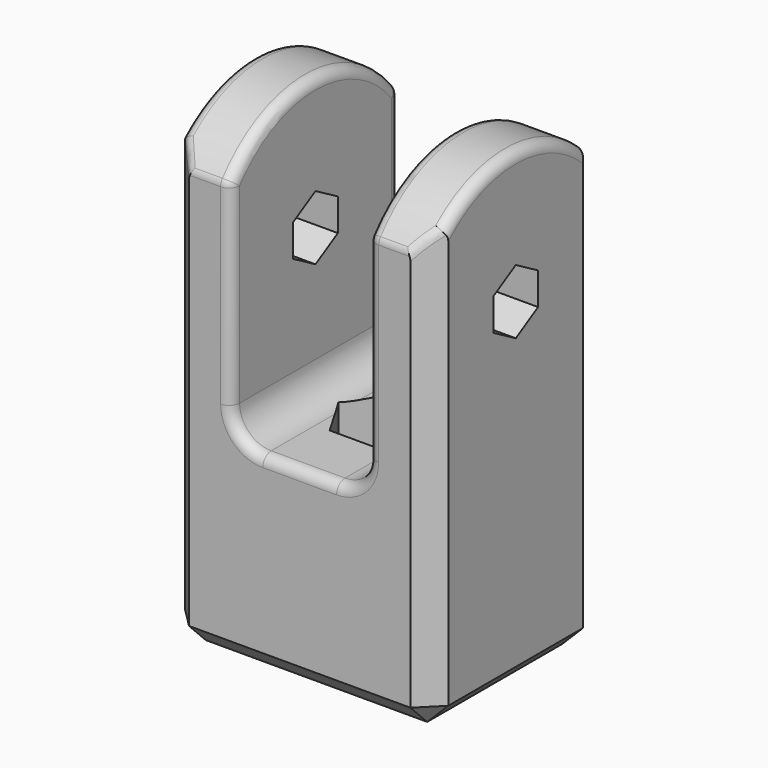
from build123d import *

# Parameters (mm, degrees)
F0_W           = 25
F0_H           = 20
F1_DEPTH       = 45
F6_DEPTH       = 12.501
F6_DEPTH_BACK  = 12.501
F4_W           = 30
F4_H           = 26.5
F7_DEPTH       = 6.5
F7_DEPTH_BACK  = 6.5
F8_R           = 3
F9_SIZE        = 2
F10_R          = 1
F11_DEPTH      = 12.5010001
F11_DEPTH_BACK = 12.5010001
F12_DEPTH      = 25


with BuildPart() as f1:
    # F0 (on Top) → F1 (new body)
    with BuildSketch(Plane.XY):
        Rectangle(F0_W, F0_H)
    extrude(amount=F1_DEPTH)

    # F3 (on Right) → F6 (cut, two sides)
    with BuildSketch(Plane.YZ) as f6_sk:
        with BuildLine():
            Line((12.4710435048, 32.5), (12.5, 32.5))
            ThreePointArc((12.5, 32.5), (12.4927587788, 32.9254152033), (12.4710435048, 33.3503375224))
            Line((12.4710435048, 33.3503375224), (12.4710435048, 32.5))
        make_face()
        with BuildLine():
            ThreePointArc((-12.5, 32.5), (-0.4254152033, 44.9927587788), (12.4710435048, 33.3503375224))
            Line((12.4710435048, 33.3503375224), (12.4710435048, 47.7809855342))
            Line((12.4710435048, 47.7809855342), (-12.574961409, 47.7809855342))
            Line((-12.574961409, 47.7809855342), (-12.574961409, 32.5))
            Line((-12.574961409, 32.5), (-12.5, 32.5))
        make_face()
    extrude(amount=-F6_DEPTH, mode=Mode.SUBTRACT)
    extrude(f6_sk.sketch, amount=F6_DEPTH_BACK, mode=Mode.SUBTRACT)

    # F4 (on Right) → F7 (cut, two sides)
    with BuildSketch(Plane.YZ) as f7_sk:
        with Locations((0.1584350094, 31.75)):
            Rectangle(F4_W, F4_H)
    extrude(amount=F7_DEPTH, mode=Mode.SUBTRACT)
    extrude(f7_sk.sketch, amount=-F7_DEPTH_BACK, mode=Mode.SUBTRACT)

    # F8
    f8_edges = [f1.edges().sort_by_distance(p)[0] for p in [
        (6.5, 0, 18.5),
        (-6.5, 0, 18.5),
    ]]
    fillet(f8_edges, radius=F8_R)

    # F9
    f9_edges = [f1.edges().sort_by_distance(p)[0] for p in [
        (12.5, 0, 0),
        (0, 10, 0),
        (-12.5, 0, 0),
        (0, -10, 0),
        (-12.5, 10, 20),
        (12.5, 10, 20),
        (-12.5, -10, 20),
        (12.5, -10, 20),
    ]]
    chamfer(f9_edges, length=F9_SIZE)

    # F10
    f10_edges = [f1.edges().sort_by_distance(p)[0] for p in [
        (6.5, 10, 30.75),
        (6.5, 0, 21.5),
        (6.5, 0, 45),
        (6.5, -10, 30.75),
        (-12.5, 0, 45),
        (-11.458371, 9.041629, 41.131278),
        (-11.458371, -9.041629, 41.131278),
        (-8.5, 10, 40),
        (-8.5, -10, 40),
        (-6.5, 0, 45),
        (8.5, 10, 40),
        (11.458371, 9.041629, 41.131278),
        (12.5, 0, 45),
        (8.5, -10, 40),
        (11.458371, -9.041629, 41.131278),
    ]]
    fillet(f10_edges, radius=F10_R)

    # F5 (on Right) → F11 (cut, two sides)
    with BuildSketch(Plane.YZ) as f11_sk:
        Polygon((-2.65, 30.9700217866), (0, 29.4400435733), (2.65, 30.9700217866), (2.65, 34.0299782134), (0, 35.5599564267), (-2.65, 34.0299782134), align=None)
    extrude(amount=-F11_DEPTH, mode=Mode.SUBTRACT)
    extrude(f11_sk.sketch, amount=F11_DEPTH_BACK, mode=Mode.SUBTRACT)

    # F2 (on face) → F12 (cut)
    with BuildSketch(Plane(origin=(0, 0, 0), x_dir=(1, 0, 0), z_dir=(0, 0, -1))):
        Polygon((4.3301270189, 0), (2.1650635095, 3.75), (-2.1650635095, 3.75), (-4.3301270189, 0), (-2.1650635095, -3.75), (2.1650635095, -3.75), align=None)
    extrude(amount=-F12_DEPTH, mode=Mode.SUBTRACT)


solid = f1.part
